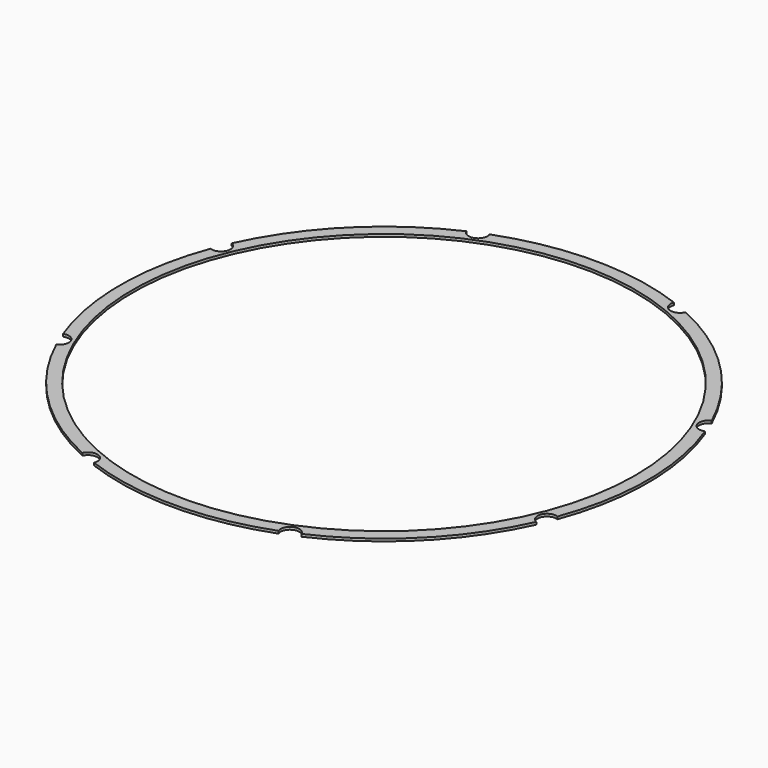
from build123d import *

# Parameters (mm, degrees)
CYLINDER1371_R               = 1.5
CYLINDER1371_DEPTH           = 32
CYLINDER1371_PLACEMENT_ANGLE = 45
CYLINDER1374_R               = 1.5
CYLINDER1374_DEPTH           = 32
CYLINDER1372_R               = 1.5
CYLINDER1372_DEPTH           = 32
CYLINDER1372_PLACEMENT_ANGLE = 135
CYLINDER1370_R               = 1.5
CYLINDER1370_DEPTH           = 32
CYLINDER1368_R               = 1.5
CYLINDER1368_DEPTH           = 32
CYLINDER1368_PLACEMENT_ANGLE = 225
CYLINDER1373_R               = 1.5
CYLINDER1373_DEPTH           = 32
CYLINDER1367_R               = 1.5
CYLINDER1367_DEPTH           = 32
CYLINDER1367_PLACEMENT_ANGLE = 45
CYLINDER1369_R               = 1.5
CYLINDER1369_DEPTH           = 32
COMPOUND952_PLACEMENT_ANGLE  = 22.5
TUBE126_R                    = 42
TUBE126_R_2                  = 40
TUBE126_DEPTH                = 0.4


with BuildPart() as obj1:
    # Cylinder1371 → Cylinder1371 (new body)
    with BuildSketch(Plane.XY):
        Circle(CYLINDER1371_R)
    extrude(amount=CYLINDER1371_DEPTH)


with BuildPart() as obj1_1:
    # Cylinder1371 placement: moved
    add(obj1.part.moved(Location((29.698485, -29.698485, 33.5))).rotate(Axis((29.698485, -29.698485, 33.5), (0, 0, 1)), CYLINDER1371_PLACEMENT_ANGLE))


with BuildPart() as obj2:
    # Cylinder1374 → Cylinder1374 (new body)
    with BuildSketch(Plane(origin=(42, 0, 33.5), x_dir=(0, 1, 0), z_dir=(0, 0, 1))):
        Circle(CYLINDER1374_R)
    extrude(amount=CYLINDER1374_DEPTH)


with BuildPart() as obj3:
    # Cylinder1372 → Cylinder1372 (new body)
    with BuildSketch(Plane.XY):
        Circle(CYLINDER1372_R)
    extrude(amount=CYLINDER1372_DEPTH)


with BuildPart() as obj3_1:
    # Cylinder1372 placement: moved
    add(obj3.part.moved(Location((29.698485, 29.698485, 33.5))).rotate(Axis((29.698485, 29.698485, 33.5), (0, 0, 1)), CYLINDER1372_PLACEMENT_ANGLE))


with BuildPart() as obj4:
    # Cylinder1370 → Cylinder1370 (new body)
    with BuildSketch(Plane(origin=(0, 42, 33.5), x_dir=(-1, 0, 0), z_dir=(0, 0, 1))):
        Circle(CYLINDER1370_R)
    extrude(amount=CYLINDER1370_DEPTH)


with BuildPart() as obj5:
    # Cylinder1368 → Cylinder1368 (new body)
    with BuildSketch(Plane.XY):
        Circle(CYLINDER1368_R)
    extrude(amount=CYLINDER1368_DEPTH)


with BuildPart() as obj5_1:
    # Cylinder1368 placement: moved
    add(obj5.part.moved(Location((-29.698485, 29.698485, 33.5))).rotate(Axis((-29.698485, 29.698485, 33.5), (0, 0, 1)), CYLINDER1368_PLACEMENT_ANGLE))


with BuildPart() as obj6:
    # Cylinder1373 → Cylinder1373 (new body)
    with BuildSketch(Plane(origin=(-42, 0, 33.5), x_dir=(0, -1, 0), z_dir=(0, 0, 1))):
        Circle(CYLINDER1373_R)
    extrude(amount=CYLINDER1373_DEPTH)


with BuildPart() as obj7:
    # Cylinder1367 → Cylinder1367 (new body)
    with BuildSketch(Plane.XY):
        Circle(CYLINDER1367_R)
    extrude(amount=CYLINDER1367_DEPTH)


with BuildPart() as obj7_1:
    # Cylinder1367 placement: moved
    add(obj7.part.moved(Location((-29.698485, -29.698485, 33.5))).rotate(Axis((-29.698485, -29.698485, 33.5), (0, 0, -1)), CYLINDER1367_PLACEMENT_ANGLE))


with BuildPart() as compound952:
    # Cylinder1369 → Cylinder1369 (new body)
    with BuildSketch(Plane(origin=(0, -42, 33.5), x_dir=(1, 0, 0), z_dir=(0, 0, 1))):
        Circle(CYLINDER1369_R)
    extrude(amount=CYLINDER1369_DEPTH)

    # Compound952: union obj1, obj2, obj3, obj4, obj5, obj6, obj7
    add(obj1_1.part)
    add(obj2.part)
    add(obj3_1.part)
    add(obj4.part)
    add(obj5_1.part)
    add(obj6.part)
    add(obj7_1.part)


with BuildPart() as compound952_1:
    # Compound952 placement: moved
    add(compound952.part.rotate(Axis((0, 0, 0), (0, 0, 1)), COMPOUND952_PLACEMENT_ANGLE))


with BuildPart() as cut497:
    # Tube126 → Tube126 (new body)
    with BuildSketch(Plane.XY.offset(38)):
        Circle(TUBE126_R)
        Circle(TUBE126_R_2, mode=Mode.SUBTRACT)
    extrude(amount=TUBE126_DEPTH)

    # Cut497: cut Compound952
    add(compound952_1.part, mode=Mode.SUBTRACT)


with BuildPart() as cut497_1:
    # Cut497 placement: moved
    add(cut497.part.moved(Location((0, 0, 1))))


solid = cut497_1.part
